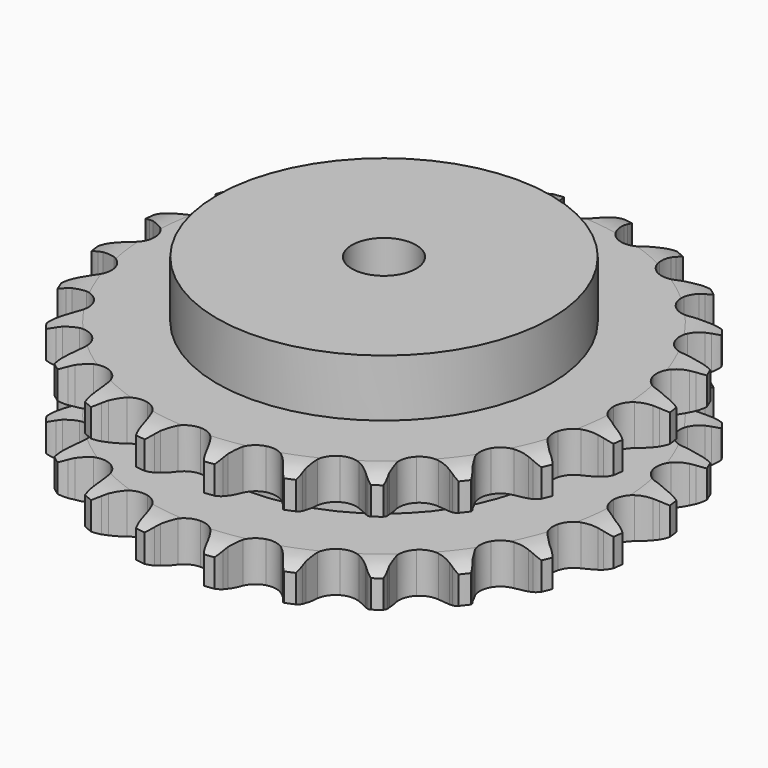
from build123d import *

# Parameters (mm, degrees)
PAD_DEPTH         = 47.7
SKETCH001_R       = 65
PAD001_DEPTH      = 70
SKETCH002_R       = 12.5
POCKET_DEPTH      = 0.0010001
POCKET_DEPTH_BACK = 70.001


with BuildPart() as part:
    # Sprocket → Pad (new body)
    with BuildSketch(Plane.XY):
        with BuildLine():
            ThreePointArc((-13.7547805856, 104.4779312029), (-11.5116551534, 102.1052879706), (-9.927704271, 99.2500914425))
            Line((-9.927704271, 99.2500914425), (-9.1566565086, 97.325582373))
            ThreePointArc((-9.1566565086, 97.325582373), (-7.9268176138, 94.7758624526), (-6.3609484118, 92.4175518239))
            ThreePointArc((-6.3609484118, 92.4175518239), (-3.5461822604, 90.1075329423), (0, 89.2806792094))
            ThreePointArc((0, 89.2806792094), (3.5461822604, 90.1075329423), (6.3609484118, 92.4175518239))
            ThreePointArc((6.3609484118, 92.4175518239), (7.9268176138, 94.7758624526), (9.1566565086, 97.325582373))
            Line((9.1566565086, 97.325582373), (9.927704271, 99.2500914425))
            ThreePointArc((9.927704271, 99.2500914425), (11.5116551534, 102.1052879706), (13.7547805856, 104.4779312029))
            ThreePointArc((13.7547805856, 104.4779312029), (15.3073881165, 101.6055702459), (16.0983879423, 98.4377055253))
            Line((16.0983879423, 98.4377055253), (16.3450632897, 96.3792106666))
            ThreePointArc((16.3450632897, 96.3792106666), (16.8730803653, 93.5980646173), (17.7752181631, 90.914834703))
            ThreePointArc((17.7752181631, 90.914834703), (19.8961966026, 87.9550127186), (23.1075401391, 86.238513837))
            ThreePointArc((23.1075401391, 86.238513837), (26.7468946628, 86.1193737058), (30.0636268644, 87.6221655152))
            Line((30.0636268644, 87.6221655152), (34.0343652979, 91.6393764788))
            ThreePointArc((34.0343652979, 91.6393764788), (34.6350370009, 92.4846155441), (35.2772398446, 93.2987476463))
            ThreePointArc((35.2772398446, 93.2987476463), (37.5461981485, 95.6466990572), (40.3269761908, 97.3579328493))
            ThreePointArc((40.3269761908, 97.3579328493), (41.0832581829, 94.18160082), (41.0274016213, 90.9169526526))
            Line((41.0274016213, 90.9169526526), (40.7328940364, 88.8647550274))
            ThreePointArc((40.7328940364, 88.8647550274), (40.5231058015, 86.0417133565), (40.7000329952, 83.2164218409))
            ThreePointArc((40.7000329952, 83.2164218409), (41.9826825472, 79.8085037306), (44.6403396047, 77.3193362624))
            ThreePointArc((44.6403396047, 77.3193362624), (48.1248503951, 76.2623214702), (51.7175188287, 76.8554734291))
            Line((51.7175188287, 76.8554734291), (56.5926883367, 79.7080985189))
            ThreePointArc((56.5926883367, 79.7080985189), (57.3916566155, 80.3690714848), (58.2226898212, 80.9892483816))
            ThreePointArc((58.2226898212, 80.9892483816), (61.0220297877, 82.6699456666), (64.1509550121, 83.6031522637))
            ThreePointArc((64.1509550121, 83.6031522637), (64.0593720974, 80.3393109407), (63.1604656807, 77.200359704))
            Line((63.1604656807, 77.200359704), (62.3448453687, 75.2943131891))
            ThreePointArc((62.3448453687, 75.2943131891), (61.4115485451, 72.621761521), (60.8512078386, 69.8469473521))
            ThreePointArc((60.8512078386, 69.8469473521), (61.2081180558, 66.2231771032), (63.1309736979, 63.1309736979))
            ThreePointArc((63.1309736979, 63.1309736979), (66.2231771032, 61.2081180558), (69.8469473521, 60.8512078386))
            Line((69.8469473521, 60.8512078386), (75.2943131891, 62.3448453687))
            ThreePointArc((75.2943131891, 62.3448453687), (76.2371296759, 62.77650802), (77.200359704, 63.1604656807))
            ThreePointArc((77.200359704, 63.1604656807), (80.3393109407, 64.0593720974), (83.6031522637, 64.1509550121))
            ThreePointArc((83.6031522637, 64.1509550121), (82.6699456666, 61.0220297877), (80.9892483816, 58.2226898212))
            Line((80.9892483816, 58.2226898212), (79.7080985189, 56.5926883367))
            ThreePointArc((79.7080985189, 56.5926883367), (78.1148957426, 54.2527566511), (76.8554734291, 51.7175188287))
            ThreePointArc((76.8554734291, 51.7175188287), (76.2623214702, 48.1248503951), (77.3193362624, 44.6403396047))
            ThreePointArc((77.3193362624, 44.6403396047), (79.8085037306, 41.9826825472), (83.2164218409, 40.7000329952))
            Line((83.2164218409, 40.7000329952), (88.8647550274, 40.7328940364))
            ThreePointArc((88.8647550274, 40.7328940364), (89.8871683367, 40.9058292767), (90.9169526526, 41.0274016213))
            ThreePointArc((90.9169526526, 41.0274016213), (94.18160082, 41.0832581829), (97.3579328493, 40.3269761908))
            ThreePointArc((97.3579328493, 40.3269761908), (95.6466990572, 37.5461981485), (93.2987476463, 35.2772398446))
            Line((93.2987476463, 35.2772398446), (91.6393764788, 34.0343652979))
            ThreePointArc((91.6393764788, 34.0343652979), (89.4948418863, 32.1865160722), (87.6221655152, 30.0636268644))
            ThreePointArc((87.6221655152, 30.0636268644), (86.1193737058, 26.7468946628), (86.238513837, 23.1075401391))
            ThreePointArc((86.238513837, 23.1075401391), (87.9550127186, 19.8961966026), (90.914834703, 17.7752181631))
            Line((90.914834703, 17.7752181631), (96.3792106666, 16.3450632897))
            ThreePointArc((96.3792106666, 16.3450632897), (97.4115450209, 16.2474858683), (98.4377055253, 16.0983879423))
            ThreePointArc((98.4377055253, 16.0983879423), (101.6055702459, 15.3073881165), (104.4779312029, 13.7547805856))
            ThreePointArc((104.4779312029, 13.7547805856), (102.1052879706, 11.5116551534), (99.2500914425, 9.927704271))
            Line((99.2500914425, 9.927704271), (97.325582373, 9.1566565086))
            ThreePointArc((97.325582373, 9.1566565086), (94.7758624526, 7.9268176138), (92.4175518239, 6.3609484118))
            ThreePointArc((92.4175518239, 6.3609484118), (90.1075329423, 3.5461822604), (89.2806792094, 0))
            ThreePointArc((89.2806792094, 0), (90.1075329423, -3.5461822604), (92.4175518239, -6.3609484118))
            Line((92.4175518239, -6.3609484118), (97.325582373, -9.1566565086))
            ThreePointArc((97.325582373, -9.1566565086), (98.2974858922, -9.5180968519), (99.2500914425, -9.927704271))
            ThreePointArc((99.2500914425, -9.927704271), (102.1052879706, -11.5116551534), (104.4779312029, -13.7547805856))
            ThreePointArc((104.4779312029, -13.7547805856), (101.6055702459, -15.3073881165), (98.4377055253, -16.0983879423))
            Line((98.4377055253, -16.0983879423), (96.3792106666, -16.3450632897))
            ThreePointArc((96.3792106666, -16.3450632897), (93.5980646173, -16.8730803653), (90.914834703, -17.7752181631))
            ThreePointArc((90.914834703, -17.7752181631), (87.9550127186, -19.8961966026), (86.238513837, -23.1075401391))
            ThreePointArc((86.238513837, -23.1075401391), (86.1193737058, -26.7468946628), (87.6221655152, -30.0636268644))
            Line((87.6221655152, -30.0636268644), (91.6393764788, -34.0343652979))
            ThreePointArc((91.6393764788, -34.0343652979), (92.4846155441, -34.6350370009), (93.2987476463, -35.2772398446))
            ThreePointArc((93.2987476463, -35.2772398446), (95.6466990572, -37.5461981485), (97.3579328493, -40.3269761908))
            ThreePointArc((97.3579328493, -40.3269761908), (94.18160082, -41.0832581829), (90.9169526526, -41.0274016213))
            Line((90.9169526526, -41.0274016213), (88.8647550274, -40.7328940364))
            ThreePointArc((88.8647550274, -40.7328940364), (86.0417133565, -40.5231058015), (83.2164218409, -40.7000329952))
            ThreePointArc((83.2164218409, -40.7000329952), (79.8085037306, -41.9826825472), (77.3193362624, -44.6403396047))
            ThreePointArc((77.3193362624, -44.6403396047), (76.2623214702, -48.1248503951), (76.8554734291, -51.7175188287))
            Line((76.8554734291, -51.7175188287), (79.7080985189, -56.5926883367))
            ThreePointArc((79.7080985189, -56.5926883367), (80.3690714848, -57.3916566155), (80.9892483816, -58.2226898212))
            ThreePointArc((80.9892483816, -58.2226898212), (82.6699456666, -61.0220297877), (83.6031522637, -64.1509550121))
            ThreePointArc((83.6031522637, -64.1509550121), (80.3393109407, -64.0593720974), (77.200359704, -63.1604656807))
            Line((77.200359704, -63.1604656807), (75.2943131891, -62.3448453687))
            ThreePointArc((75.2943131891, -62.3448453687), (72.621761521, -61.4115485451), (69.8469473521, -60.8512078386))
            ThreePointArc((69.8469473521, -60.8512078386), (66.2231771032, -61.2081180558), (63.1309736979, -63.1309736979))
            ThreePointArc((63.1309736979, -63.1309736979), (61.2081180558, -66.2231771032), (60.8512078386, -69.8469473521))
            Line((60.8512078386, -69.8469473521), (62.3448453687, -75.2943131891))
            ThreePointArc((62.3448453687, -75.2943131891), (62.77650802, -76.2371296759), (63.1604656807, -77.200359704))
            ThreePointArc((63.1604656807, -77.200359704), (64.0593720974, -80.3393109407), (64.1509550121, -83.6031522637))
            ThreePointArc((64.1509550121, -83.6031522637), (61.0220297877, -82.6699456666), (58.2226898212, -80.9892483816))
            Line((58.2226898212, -80.9892483816), (56.5926883367, -79.7080985189))
            ThreePointArc((56.5926883367, -79.7080985189), (54.2527566511, -78.1148957426), (51.7175188287, -76.8554734291))
            ThreePointArc((51.7175188287, -76.8554734291), (48.1248503951, -76.2623214702), (44.6403396047, -77.3193362624))
            ThreePointArc((44.6403396047, -77.3193362624), (41.9826825472, -79.8085037306), (40.7000329952, -83.2164218409))
            Line((40.7000329952, -83.2164218409), (40.7328940364, -88.8647550274))
            ThreePointArc((40.7328940364, -88.8647550274), (40.9058292767, -89.8871683367), (41.0274016213, -90.9169526526))
            ThreePointArc((41.0274016213, -90.9169526526), (41.0832581829, -94.18160082), (40.3269761908, -97.3579328493))
            ThreePointArc((40.3269761908, -97.3579328493), (37.5461981485, -95.6466990572), (35.2772398446, -93.2987476463))
            Line((35.2772398446, -93.2987476463), (34.0343652979, -91.6393764788))
            ThreePointArc((34.0343652979, -91.6393764788), (32.1865160722, -89.4948418863), (30.0636268644, -87.6221655152))
            ThreePointArc((30.0636268644, -87.6221655152), (26.7468946628, -86.1193737058), (23.1075401391, -86.238513837))
            ThreePointArc((23.1075401391, -86.238513837), (19.8961966026, -87.9550127186), (17.7752181631, -90.914834703))
            Line((17.7752181631, -90.914834703), (16.3450632897, -96.3792106666))
            ThreePointArc((16.3450632897, -96.3792106666), (16.2474858683, -97.4115450209), (16.0983879423, -98.4377055253))
            ThreePointArc((16.0983879423, -98.4377055253), (15.3073881165, -101.6055702459), (13.7547805856, -104.4779312029))
            ThreePointArc((13.7547805856, -104.4779312029), (11.5116551534, -102.1052879706), (9.927704271, -99.2500914425))
            Line((9.927704271, -99.2500914425), (9.1566565086, -97.325582373))
            ThreePointArc((9.1566565086, -97.325582373), (7.9268176138, -94.7758624526), (6.3609484118, -92.4175518239))
            ThreePointArc((6.3609484118, -92.4175518239), (3.5461822604, -90.1075329423), (0, -89.2806792094))
            ThreePointArc((0, -89.2806792094), (-3.5461822604, -90.1075329423), (-6.3609484118, -92.4175518239))
            Line((-6.3609484118, -92.4175518239), (-9.1566565086, -97.325582373))
            ThreePointArc((-9.1566565086, -97.325582373), (-9.5180968519, -98.2974858922), (-9.927704271, -99.2500914425))
            ThreePointArc((-9.927704271, -99.2500914425), (-11.5116551534, -102.1052879706), (-13.7547805856, -104.4779312029))
            ThreePointArc((-13.7547805856, -104.4779312029), (-15.3073881165, -101.6055702459), (-16.0983879423, -98.4377055253))
            Line((-16.0983879423, -98.4377055253), (-16.3450632897, -96.3792106666))
            ThreePointArc((-16.3450632897, -96.3792106666), (-16.8730803653, -93.5980646173), (-17.7752181631, -90.914834703))
            ThreePointArc((-17.7752181631, -90.914834703), (-19.8961966026, -87.9550127186), (-23.1075401391, -86.238513837))
            ThreePointArc((-23.1075401391, -86.238513837), (-26.7468946628, -86.1193737058), (-30.0636268644, -87.6221655152))
            Line((-30.0636268644, -87.6221655152), (-34.0343652979, -91.6393764788))
            ThreePointArc((-34.0343652979, -91.6393764788), (-34.6350370009, -92.4846155441), (-35.2772398446, -93.2987476463))
            ThreePointArc((-35.2772398446, -93.2987476463), (-37.5461981485, -95.6466990572), (-40.3269761908, -97.3579328493))
            ThreePointArc((-40.3269761908, -97.3579328493), (-41.0832581829, -94.18160082), (-41.0274016213, -90.9169526526))
            Line((-41.0274016213, -90.9169526526), (-40.7328940364, -88.8647550274))
            ThreePointArc((-40.7328940364, -88.8647550274), (-40.5231058015, -86.0417133565), (-40.7000329952, -83.2164218409))
            ThreePointArc((-40.7000329952, -83.2164218409), (-41.9826825472, -79.8085037306), (-44.6403396047, -77.3193362624))
            ThreePointArc((-44.6403396047, -77.3193362624), (-48.1248503951, -76.2623214702), (-51.7175188287, -76.8554734291))
            Line((-51.7175188287, -76.8554734291), (-56.5926883367, -79.7080985189))
            ThreePointArc((-56.5926883367, -79.7080985189), (-57.3916566155, -80.3690714848), (-58.2226898212, -80.9892483816))
            ThreePointArc((-58.2226898212, -80.9892483816), (-61.0220297877, -82.6699456666), (-64.1509550121, -83.6031522637))
            ThreePointArc((-64.1509550121, -83.6031522637), (-64.0593720974, -80.3393109407), (-63.1604656807, -77.200359704))
            Line((-63.1604656807, -77.200359704), (-62.3448453687, -75.2943131891))
            ThreePointArc((-62.3448453687, -75.2943131891), (-61.4115485451, -72.621761521), (-60.8512078386, -69.8469473521))
            ThreePointArc((-60.8512078386, -69.8469473521), (-61.2081180558, -66.2231771032), (-63.1309736979, -63.1309736979))
            ThreePointArc((-63.1309736979, -63.1309736979), (-66.2231771032, -61.2081180558), (-69.8469473521, -60.8512078386))
            Line((-69.8469473521, -60.8512078386), (-75.2943131891, -62.3448453687))
            ThreePointArc((-75.2943131891, -62.3448453687), (-76.2371296759, -62.77650802), (-77.200359704, -63.1604656807))
            ThreePointArc((-77.200359704, -63.1604656807), (-80.3393109407, -64.0593720974), (-83.6031522637, -64.1509550121))
            ThreePointArc((-83.6031522637, -64.1509550121), (-82.6699456666, -61.0220297877), (-80.9892483816, -58.2226898212))
            Line((-80.9892483816, -58.2226898212), (-79.7080985189, -56.5926883367))
            ThreePointArc((-79.7080985189, -56.5926883367), (-78.1148957426, -54.2527566511), (-76.8554734291, -51.7175188287))
            ThreePointArc((-76.8554734291, -51.7175188287), (-76.2623214702, -48.1248503951), (-77.3193362624, -44.6403396047))
            ThreePointArc((-77.3193362624, -44.6403396047), (-79.8085037306, -41.9826825472), (-83.2164218409, -40.7000329952))
            Line((-83.2164218409, -40.7000329952), (-88.8647550274, -40.7328940364))
            ThreePointArc((-88.8647550274, -40.7328940364), (-89.8871683367, -40.9058292767), (-90.9169526526, -41.0274016213))
            ThreePointArc((-90.9169526526, -41.0274016213), (-94.18160082, -41.0832581829), (-97.3579328493, -40.3269761908))
            ThreePointArc((-97.3579328493, -40.3269761908), (-95.6466990572, -37.5461981485), (-93.2987476463, -35.2772398446))
            Line((-93.2987476463, -35.2772398446), (-91.6393764788, -34.0343652979))
            ThreePointArc((-91.6393764788, -34.0343652979), (-89.4948418863, -32.1865160722), (-87.6221655152, -30.0636268644))
            ThreePointArc((-87.6221655152, -30.0636268644), (-86.1193737058, -26.7468946628), (-86.238513837, -23.1075401391))
            ThreePointArc((-86.238513837, -23.1075401391), (-87.9550127186, -19.8961966026), (-90.914834703, -17.7752181631))
            Line((-90.914834703, -17.7752181631), (-96.3792106666, -16.3450632897))
            ThreePointArc((-96.3792106666, -16.3450632897), (-97.4115450209, -16.2474858683), (-98.4377055253, -16.0983879423))
            ThreePointArc((-98.4377055253, -16.0983879423), (-101.6055702459, -15.3073881165), (-104.4779312029, -13.7547805856))
            ThreePointArc((-104.4779312029, -13.7547805856), (-102.1052879706, -11.5116551534), (-99.2500914425, -9.927704271))
            Line((-99.2500914425, -9.927704271), (-97.325582373, -9.1566565086))
            ThreePointArc((-97.325582373, -9.1566565086), (-94.7758624526, -7.9268176138), (-92.4175518239, -6.3609484118))
            ThreePointArc((-92.4175518239, -6.3609484118), (-90.1075329423, -3.5461822604), (-89.2806792094, 0))
            ThreePointArc((-89.2806792094, 0), (-90.1075329423, 3.5461822604), (-92.4175518239, 6.3609484118))
            Line((-92.4175518239, 6.3609484118), (-97.325582373, 9.1566565086))
            ThreePointArc((-97.325582373, 9.1566565086), (-98.2974858922, 9.5180968519), (-99.2500914425, 9.927704271))
            ThreePointArc((-99.2500914425, 9.927704271), (-102.1052879706, 11.5116551534), (-104.4779312029, 13.7547805856))
            ThreePointArc((-104.4779312029, 13.7547805856), (-101.6055702459, 15.3073881165), (-98.4377055253, 16.0983879423))
            Line((-98.4377055253, 16.0983879423), (-96.3792106666, 16.3450632897))
            ThreePointArc((-96.3792106666, 16.3450632897), (-93.5980646173, 16.8730803653), (-90.914834703, 17.7752181631))
            ThreePointArc((-90.914834703, 17.7752181631), (-87.9550127186, 19.8961966026), (-86.238513837, 23.1075401391))
            ThreePointArc((-86.238513837, 23.1075401391), (-86.1193737058, 26.7468946628), (-87.6221655152, 30.0636268644))
            Line((-87.6221655152, 30.0636268644), (-91.6393764788, 34.0343652979))
            ThreePointArc((-91.6393764788, 34.0343652979), (-92.4846155441, 34.6350370009), (-93.2987476463, 35.2772398446))
            ThreePointArc((-93.2987476463, 35.2772398446), (-95.6466990572, 37.5461981485), (-97.3579328493, 40.3269761908))
            ThreePointArc((-97.3579328493, 40.3269761908), (-94.18160082, 41.0832581829), (-90.9169526526, 41.0274016213))
            Line((-90.9169526526, 41.0274016213), (-88.8647550274, 40.7328940364))
            ThreePointArc((-88.8647550274, 40.7328940364), (-86.0417133565, 40.5231058015), (-83.2164218409, 40.7000329952))
            ThreePointArc((-83.2164218409, 40.7000329952), (-79.8085037306, 41.9826825472), (-77.3193362624, 44.6403396047))
            ThreePointArc((-77.3193362624, 44.6403396047), (-76.2623214702, 48.1248503951), (-76.8554734291, 51.7175188287))
            Line((-76.8554734291, 51.7175188287), (-79.7080985189, 56.5926883367))
            ThreePointArc((-79.7080985189, 56.5926883367), (-80.3690714848, 57.3916566155), (-80.9892483816, 58.2226898212))
            ThreePointArc((-80.9892483816, 58.2226898212), (-82.6699456666, 61.0220297877), (-83.6031522637, 64.1509550121))
            ThreePointArc((-83.6031522637, 64.1509550121), (-80.3393109407, 64.0593720974), (-77.200359704, 63.1604656807))
            Line((-77.200359704, 63.1604656807), (-75.2943131891, 62.3448453687))
            ThreePointArc((-75.2943131891, 62.3448453687), (-72.621761521, 61.4115485451), (-69.8469473521, 60.8512078386))
            ThreePointArc((-69.8469473521, 60.8512078386), (-66.2231771032, 61.2081180558), (-63.1309736979, 63.1309736979))
            ThreePointArc((-63.1309736979, 63.1309736979), (-61.2081180558, 66.2231771032), (-60.8512078386, 69.8469473521))
            Line((-60.8512078386, 69.8469473521), (-62.3448453687, 75.2943131891))
            ThreePointArc((-62.3448453687, 75.2943131891), (-62.77650802, 76.2371296759), (-63.1604656807, 77.200359704))
            ThreePointArc((-63.1604656807, 77.200359704), (-64.0593720974, 80.3393109407), (-64.1509550121, 83.6031522637))
            ThreePointArc((-64.1509550121, 83.6031522637), (-61.0220297877, 82.6699456666), (-58.2226898212, 80.9892483816))
            Line((-58.2226898212, 80.9892483816), (-56.5926883367, 79.7080985189))
            ThreePointArc((-56.5926883367, 79.7080985189), (-54.2527566511, 78.1148957426), (-51.7175188287, 76.8554734291))
            ThreePointArc((-51.7175188287, 76.8554734291), (-48.1248503951, 76.2623214702), (-44.6403396047, 77.3193362624))
            ThreePointArc((-44.6403396047, 77.3193362624), (-41.9826825472, 79.8085037306), (-40.7000329952, 83.2164218409))
            Line((-40.7000329952, 83.2164218409), (-40.7328940364, 88.8647550274))
            ThreePointArc((-40.7328940364, 88.8647550274), (-40.9058292767, 89.8871683367), (-41.0274016213, 90.9169526526))
            ThreePointArc((-41.0274016213, 90.9169526526), (-41.0832581829, 94.18160082), (-40.3269761908, 97.3579328493))
            ThreePointArc((-40.3269761908, 97.3579328493), (-37.5461981485, 95.6466990572), (-35.2772398446, 93.2987476463))
            Line((-35.2772398446, 93.2987476463), (-34.0343652979, 91.6393764788))
            ThreePointArc((-34.0343652979, 91.6393764788), (-32.1865160722, 89.4948418863), (-30.0636268644, 87.6221655152))
            ThreePointArc((-30.0636268644, 87.6221655152), (-26.7468946628, 86.1193737058), (-23.1075401391, 86.238513837))
            ThreePointArc((-23.1075401391, 86.238513837), (-19.8961966026, 87.9550127186), (-17.7752181631, 90.914834703))
            Line((-17.7752181631, 90.914834703), (-16.3450632897, 96.3792106666))
            ThreePointArc((-16.3450632897, 96.3792106666), (-16.2474858683, 97.4115450209), (-16.0983879423, 98.4377055253))
            ThreePointArc((-16.0983879423, 98.4377055253), (-15.3073881165, 101.6055702459), (-13.7547805856, 104.4779312029))
        make_face()
    extrude(amount=PAD_DEPTH)

    # Sketch → Groove (revolve, cut)
    with BuildSketch(Plane.XZ):
        with BuildLine():
            ThreePointArc((91.6257022694, 0), (97.3265793949, 0.6326982121), (102.75, 2.5))
            Line((102.75, 2.5), (102.75, 13.3))
            ThreePointArc((102.75, 13.3), (97.3265793949, 15.1673017879), (91.6257022694, 15.8))
            Line((65, 15.8), (91.6257022694, 15.8))
            Line((65, 31.9), (65, 15.8))
            Line((91.6257022694, 31.9), (65, 31.9))
            ThreePointArc((91.6257022694, 31.9), (97.3265793949, 32.5326982121), (102.75, 34.4))
            Line((102.75, 34.4), (102.75, 45.2))
            ThreePointArc((102.75, 45.2), (97.3265793949, 47.0673017879), (91.6257022694, 47.7))
            Line((91.6257022694, 47.7), (112.75, 47.7))
            Line((112.75, 47.7), (112.75, 0))
            Line((91.6257022694, 0), (112.75, 0))
        make_face()
    revolve(axis=Axis((0, 0, 0), (0, 0, 1)), mode=Mode.SUBTRACT)

    # Sketch001 → Pad001 (join)
    with BuildSketch(Plane.XY):
        Circle(SKETCH001_R)
    extrude(amount=PAD001_DEPTH)

    # Sketch002 → Pocket (cut, two sides)
    with BuildSketch(Plane.XY) as pocket_sk:
        Circle(SKETCH002_R)
    extrude(amount=-POCKET_DEPTH, mode=Mode.SUBTRACT)
    extrude(pocket_sk.sketch, amount=POCKET_DEPTH_BACK, mode=Mode.SUBTRACT)


solid = part.part
